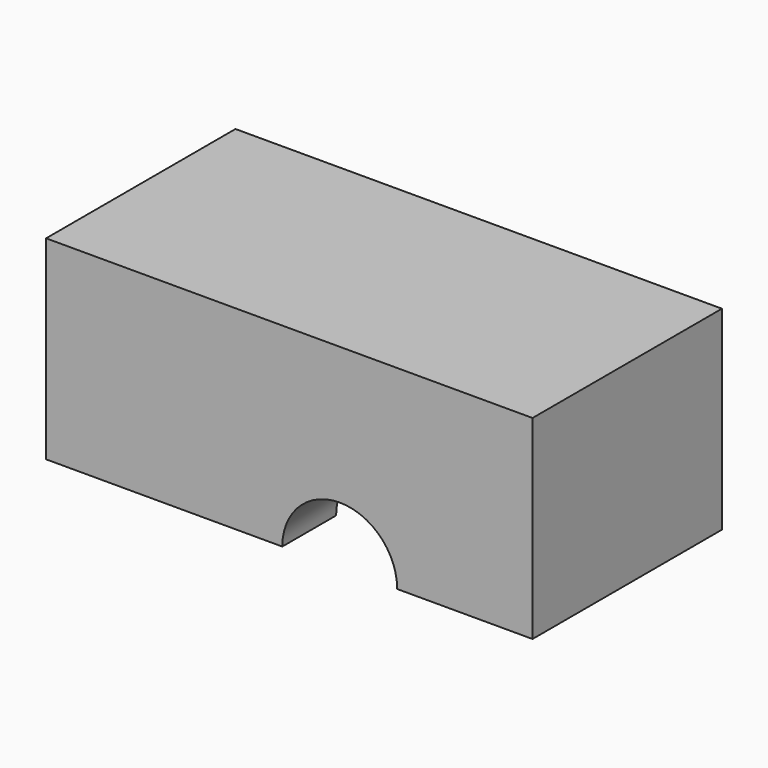
from build123d import *

# Parameters (mm, degrees)
F0_W     = 38.1
F0_H     = 13.271
F1_DEPTH = 15.24
F3_DEPTH = 8
F0_H_2   = 5.271
F4_DEPTH = 15.24
F5_R     = 4.5
F6_DEPTH = 16.002


with BuildPart() as f1:
    # F0 (on Top) → F1 (new body)
    with BuildSketch(Plane.XY):
        with Locations((0, 2.6355)):
            Rectangle(F0_W, F0_H)
    extrude(amount=F1_DEPTH)

    # F2 (on face) → F3 (cut)
    with BuildSketch(Plane.XZ.offset(4)):
        with BuildLine():
            Line((8.45, 0), (15.45, 0))
            ThreePointArc((15.45, 0), (3.95, 11.5), (-7.55, 0))
            Line((-7.55, 0), (-0.55, 0))
            ThreePointArc((-0.55, 0), (3.95, 4.5), (8.45, 0))
        make_face()
        with BuildLine():
            Line((-0.55, 0), (8.45, 0))
            ThreePointArc((8.45, 0), (3.95, 4.5), (-0.55, 0))
        make_face()
    extrude(amount=-F3_DEPTH, mode=Mode.SUBTRACT)

    # F0 (on Top) → F4 (join)
    with BuildSketch(Plane.XY):
        with Locations((0, -6.6355)):
            Rectangle(F0_W, F0_H_2)
    extrude(amount=F4_DEPTH)

    # F5 (on face) → F6 (cut)
    with BuildSketch(Plane.XZ.offset(9.271)):
        with Locations((3.95, 0)):
            Circle(F5_R)
    extrude(amount=-F6_DEPTH, mode=Mode.SUBTRACT)


solid = f1.part
